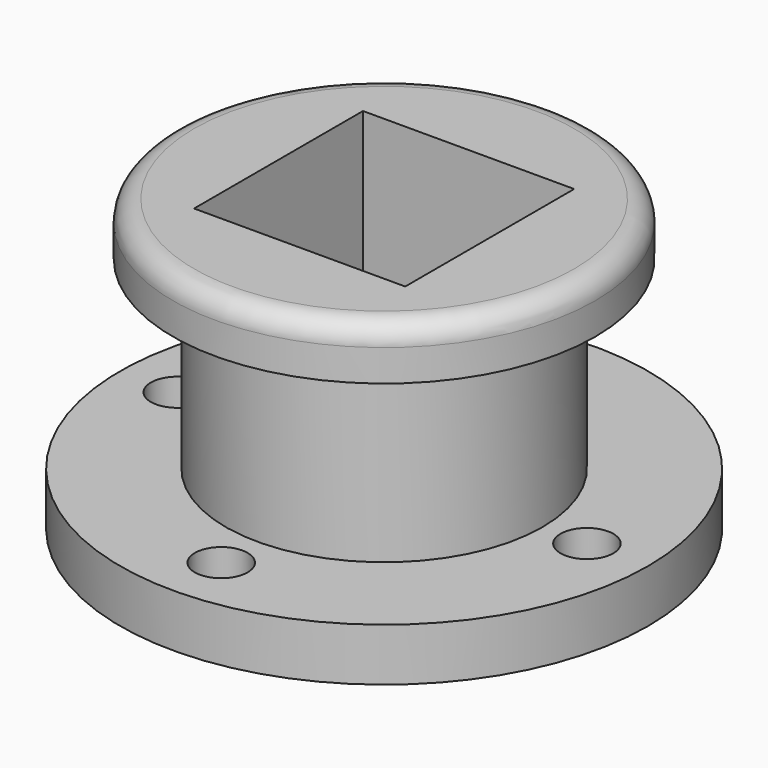
from build123d import *

# Parameters (mm, degrees)
F0_R      = 63.5
F1_DEPTH  = 12.7
F2_R      = 38.1
F3_DEPTH  = 57.15
F4_R      = 6.35
F5_DEPTH  = 12.7
F6_DEPTH  = 25.4
F7_DEPTH  = 25.4
F8_R      = 50.8
F9_DEPTH  = 12.7
F10_W     = 50.8
F10_H     = 50.8
F11_DEPTH = 127
F12_R     = 5.08


with BuildPart() as f1:
    # F0 (on Top) → F1 (new body)
    with BuildSketch(Plane.XY):
        Circle(F0_R)
    extrude(amount=F1_DEPTH)

    # F2 (on Top) → F3 (join)
    with BuildSketch(Plane.XY):
        Circle(F2_R)
    extrude(amount=F3_DEPTH)

    # F4 (on Top) → F5 (cut)
    with BuildSketch(Plane.XY):
        with Locations((-49.74369, 0)):
            Circle(F4_R)
        with Locations((0, 49.552731)):
            Circle(F4_R)
        with Locations((48.788916, 0)):
            Circle(F4_R)
        with Locations((0, -48.979867)):
            Circle(F4_R)
    extrude(amount=-F5_DEPTH, mode=Mode.SUBTRACT)

    # F4 (on Top) → F6 (cut)
    with BuildSketch(Plane.XY):
        with Locations((-49.74369, 0)):
            Circle(F4_R)
        with Locations((0, 49.552731)):
            Circle(F4_R)
        with Locations((48.788916, 0)):
            Circle(F4_R)
        with Locations((0, -48.979867)):
            Circle(F4_R)
    extrude(amount=F6_DEPTH, mode=Mode.SUBTRACT)

    # F4 (on Top) → F7 (cut)
    with BuildSketch(Plane.XY):
        with Locations((-49.74369, 0)):
            Circle(F4_R)
        with Locations((0, 49.552731)):
            Circle(F4_R)
        with Locations((48.788916, 0)):
            Circle(F4_R)
        with Locations((0, -48.979867)):
            Circle(F4_R)
    extrude(amount=-F7_DEPTH, mode=Mode.SUBTRACT)

    # F8 (on face) → F9 (join)
    with BuildSketch(Plane.XY.offset(57.15)):
        Circle(F8_R)
    extrude(amount=F9_DEPTH)

    # F10 (on face) → F11 (cut)
    with BuildSketch(Plane.XY.offset(69.85)):
        Rectangle(F10_W, F10_H)
    extrude(amount=-F11_DEPTH, mode=Mode.SUBTRACT)

    # F12
    f12_edges = [f1.edges().sort_by_distance(p)[0] for p in [
        (-50.8, 0, 69.85),
    ]]
    fillet(f12_edges, radius=F12_R)


solid = f1.part
